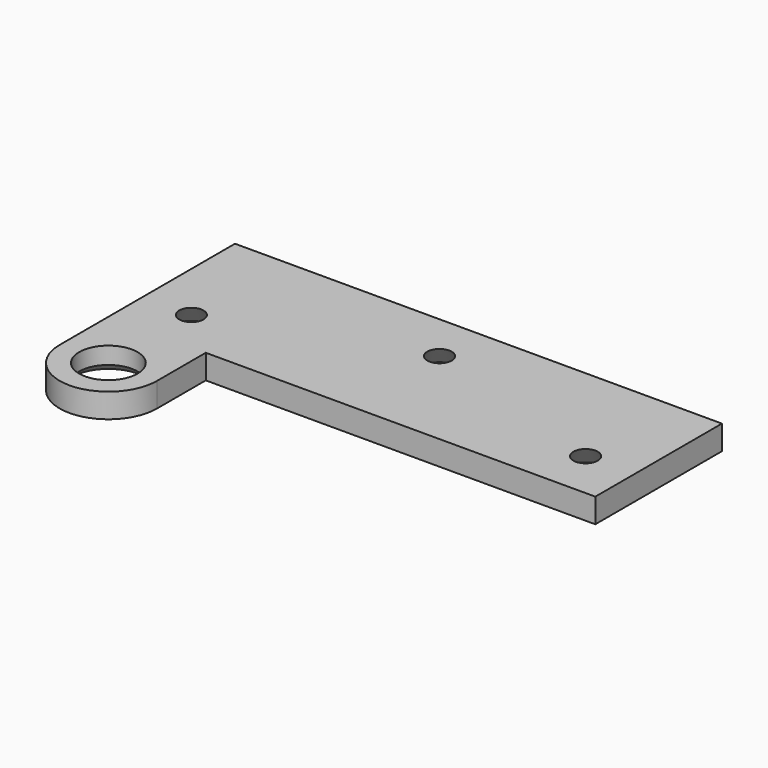
from build123d import *

# Parameters (mm, degrees)
F1_DEPTH       = 3.175
F2_D           = 2.54
F2_CSINK_D     = 9.525
F2_CSINK_ANGLE = 90
F3_D           = 7.62
F3_CSINK_D     = 9.525
F3_CSINK_ANGLE = 90


with BuildPart() as f1:
    # F0 (on Top) → F1 (new body)
    with BuildSketch(Plane.XY):
        with BuildLine():
            Line((31.75, -10.31875), (31.75, 10.31875))
            Line((31.75, 10.31875), (-31.75, 10.31875))
            Line((-31.75, 10.31875), (-31.75, -18.25625))
            ThreePointArc((-31.75, -18.25625), (-25.4, -24.60625), (-19.05, -18.25625))
            Line((-19.05, -18.25625), (-19.05, -10.31875))
            Line((-19.05, -10.31875), (31.75, -10.31875))
        make_face()
    extrude(amount=F1_DEPTH)

    # F2 (through all)
    with Locations(Plane(origin=(0, 0, 0), x_dir=(1, 0, 0), z_dir=(0, 0, -1))):
        with Locations((25.4, 3.96875), (0, -3.96875), (-25.4, 4.7241849825)):
            CounterSinkHole(F2_D / 2, F2_CSINK_D / 2, counter_sink_angle=F2_CSINK_ANGLE)

    # F3 (through all)
    with Locations(Plane(origin=(0, 0, 0), x_dir=(1, 0, 0), z_dir=(0, 0, -1))):
        with Locations((-25.4, 18.25625)):
            CounterSinkHole(F3_D / 2, F3_CSINK_D / 2, counter_sink_angle=F3_CSINK_ANGLE)


solid = f1.part
